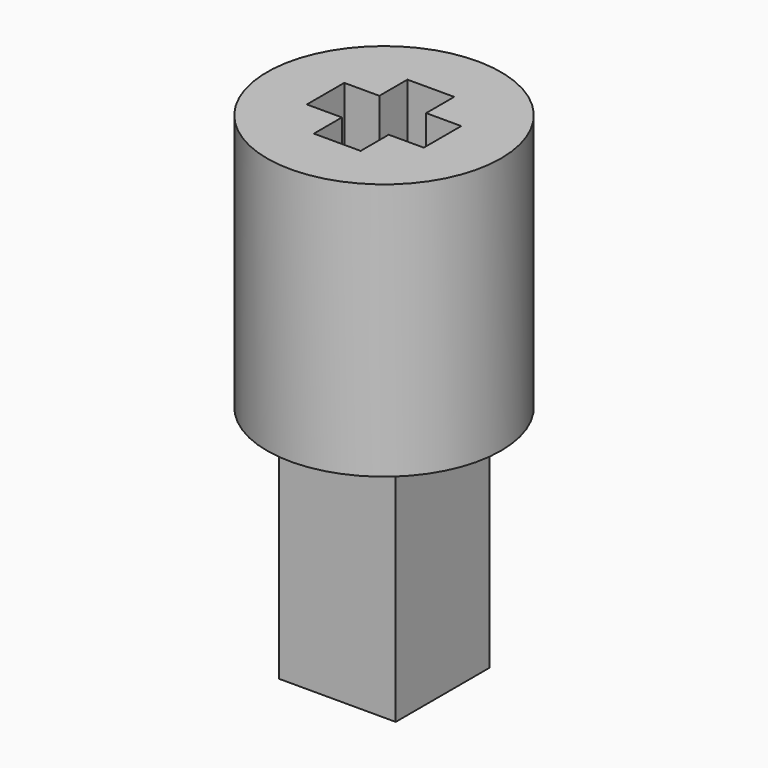
from build123d import *

# Parameters (mm, degrees)
F0_W     = 5
F0_H     = 5
F1_DEPTH = 10
F2_R     = 5
F2_W     = 5
F2_H     = 5
F3_DEPTH = 11
F5_DEPTH = 7.5


with BuildPart() as f1:
    # F0 (on Top) → F1 (new body)
    with BuildSketch(Plane.XY):
        Rectangle(F0_W, F0_H)
    extrude(amount=F1_DEPTH)

    # F2 (on face) → F3 (join)
    with BuildSketch(Plane.XY.offset(10)):
        Circle(F2_R)
        Rectangle(F2_W, F2_H, mode=Mode.SUBTRACT)
        Rectangle(F2_W, F2_H)
    extrude(amount=F3_DEPTH)

    # F4 (on face) → F5 (cut)
    with BuildSketch(Plane.XY.offset(21)):
        Polygon((1, 2.5), (-1, 2.5), (-1, 1), (-2.5, 1), (-2.5, -1), (-1, -1), (-1, -2.5), (1, -2.5), (1, -1), (2.5, -1), (2.5, 1), (1, 1), align=None)
    extrude(amount=-F5_DEPTH, mode=Mode.SUBTRACT)


solid = f1.part
